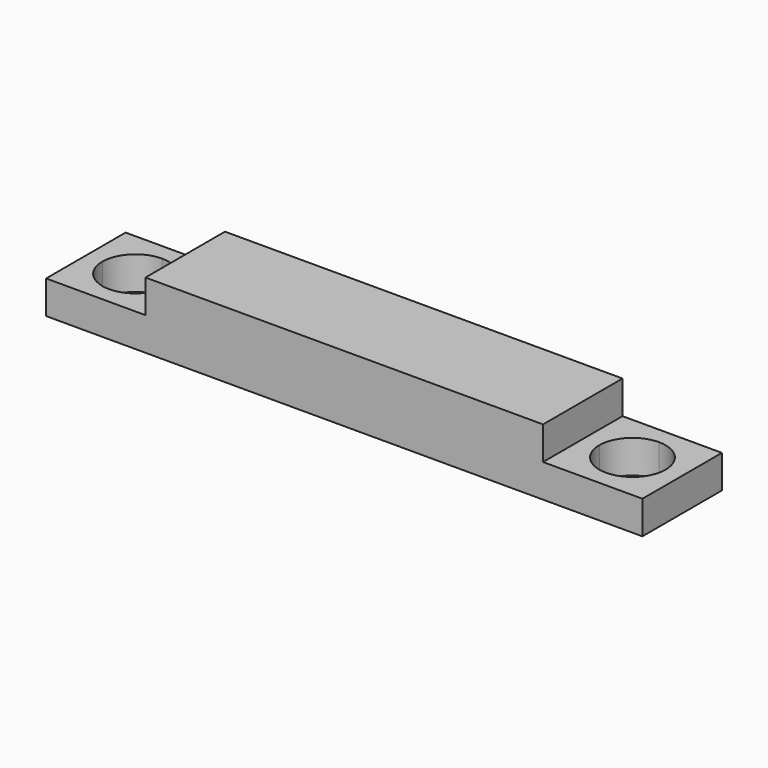
from build123d import *

# Parameters (mm, degrees)
F1_DEPTH = 30
F4_DEPTH = 25
F5_DEPTH = 25


with BuildPart() as f1:
    # F0 (on Front) → F1 (new body)
    with BuildSketch(Plane.XZ):
        Polygon((-91.375001, 38.374996), (-91.375001, 28.374996), (88.624999, 28.374996), (88.624999, 38.374996), (58.624999, 38.374996), (58.624999, 48.374996), (-61.375001, 48.374996), (-61.375001, 38.374996), align=None)
    extrude(amount=F1_DEPTH)

    # F3 (on face) → F4 (cut)
    with BuildSketch(Plane.XY.offset(38.374996)):
        with BuildLine():
            ThreePointArc((-76.375001, -25), (-69.303933, -22.071068), (-66.375001, -15))
            ThreePointArc((-66.375001, -15), (-69.303933, -7.928932), (-76.375001, -5))
            ThreePointArc((-76.375001, -5), (-83.446069, -7.928932), (-86.375001, -15))
            ThreePointArc((-86.375001, -15), (-83.446069, -22.071068), (-76.375001, -25))
        make_face()
    extrude(amount=-F4_DEPTH, mode=Mode.SUBTRACT)

    # F2 (on face) → F5 (cut)
    with BuildSketch(Plane.XY.offset(38.374996)):
        with BuildLine():
            ThreePointArc((73.624999, -25), (80.696067, -22.071068), (83.624999, -15))
            ThreePointArc((83.624999, -15), (80.696067, -7.928932), (73.624999, -5))
            ThreePointArc((73.624999, -5), (66.553931, -7.928932), (63.624999, -15))
            ThreePointArc((63.624999, -15), (66.553931, -22.071068), (73.624999, -25))
        make_face()
    extrude(amount=-F5_DEPTH, mode=Mode.SUBTRACT)


solid = f1.part
